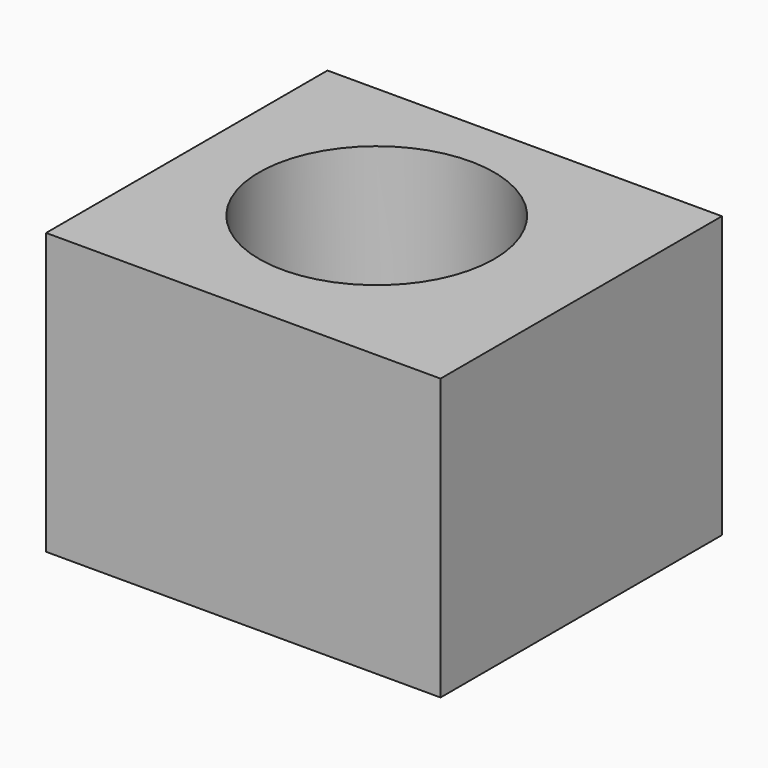
from build123d import *

# Parameters (mm, degrees)
F0_W     = 119.193573
F0_H     = 106.287264
F1_DEPTH = 42.418
F2_R     = 35.506057
F3_DEPTH = 102.108


with BuildPart() as f1:
    # F0 (on Top) → F1 (new body, symmetric)
    with BuildSketch(Plane.XY):
        with Locations((4.175572, -2.46739)):
            Rectangle(F0_W, F0_H)
    extrude(amount=F1_DEPTH, both=True)

    # F2 (on face) → F3 (cut)
    with BuildSketch(Plane.XY.offset(42.418)):
        Circle(F2_R)
    extrude(amount=-F3_DEPTH, mode=Mode.SUBTRACT)


solid = f1.part
